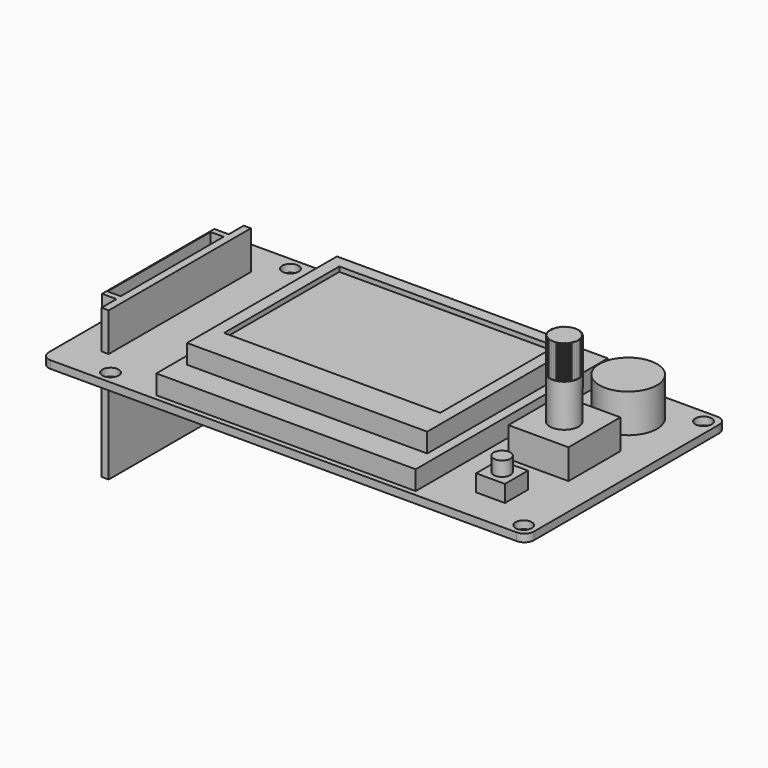
from build123d import *

# Parameters (mm, degrees)
F0_R      = 1.7
F1_DEPTH  = 1.6
F2_W      = 54
F2_H      = 50
F3_DEPTH  = 4
F4_W      = 50
F4_H      = 39
F5_DEPTH  = 4
F7_DEPTH  = 8
F8_DEPTH  = 23
F9_W      = 2.7
F9_H      = 26.8
F10_DEPTH = 25
F12_R     = 6
F13_DEPTH = 8
F14_R     = 3
F15_DEPTH = 22
F11_W     = 12.5
F11_H     = 13.5
F16_DEPTH = 6.2
F18_DEPTH = 7
F19_W     = 6
F19_H     = 6
F20_DEPTH = 3.5
F21_R     = 1.75
F22_DEPTH = 3
F23_W     = 45
F23_H     = 30
F24_DEPTH = 1


with BuildPart() as f1:
    # F0 (on Top) → F1 (new body)
    with BuildSketch(Plane.XY):
        with BuildLine():
            ThreePointArc((0, 2), (0.585786, 0.585786), (2, 0))
            Line((2, 0), (99, 0))
            ThreePointArc((99, 0), (100.414214, 0.585786), (101, 2))
            Line((101, 2), (101, 50.2))
            ThreePointArc((101, 50.2), (100.414214, 51.614214), (99, 52.2))
            Line((99, 52.2), (2, 52.2))
            ThreePointArc((2, 52.2), (0.585786, 51.614214), (0, 50.2))
            Line((0, 50.2), (0, 2))
        make_face()
        with Locations((12.3, 2.7)):
            Circle(F0_R, mode=Mode.SUBTRACT)
        with Locations((98.3, 2.7)):
            Circle(F0_R, mode=Mode.SUBTRACT)
        with Locations((12.3, 49.5)):
            Circle(F0_R, mode=Mode.SUBTRACT)
        with Locations((98.3, 49.5)):
            Circle(F0_R, mode=Mode.SUBTRACT)
    extrude(amount=F1_DEPTH)

    # F2 (on face) → F3 (join)
    with BuildSketch(Plane.XY.offset(1.6)):
        with Locations((50.1, 26.1)):
            Rectangle(F2_W, F2_H)
    extrude(amount=F3_DEPTH)

    # F4 (on face) → F5 (join)
    with BuildSketch(Plane.XY.offset(5.6)):
        with Locations((50.1, 26.1)):
            Rectangle(F4_W, F4_H)
    extrude(amount=F5_DEPTH)

    # F6 (on face) → F7 (join)
    with BuildSketch(Plane.XY.offset(1.6)):
        Polygon((8, 7.6), (8, 44.6), (6.5, 44.6), (6.5, 40.7), (3.5, 40.7), (3.5, 11.5), (6.5, 11.5), (6.5, 7.6), align=None)
    extrude(amount=F7_DEPTH)

    # F6 (on face) → F8 (join)
    with BuildSketch(Plane.XY.offset(1.6)):
        Polygon((8, 7.6), (8, 44.6), (6.5, 44.6), (6.5, 40.7), (3.5, 40.7), (3.5, 11.5), (6.5, 11.5), (6.5, 7.6), align=None)
    extrude(amount=-F8_DEPTH)

    # F9 (on face) → F10 (cut)
    with BuildSketch(Plane.XY.offset(9.6)):
        with Locations((5.05, 26.1)):
            Rectangle(F9_W, F9_H)
    extrude(amount=-F10_DEPTH, mode=Mode.SUBTRACT)

    # F12 (on face) → F13 (join)
    with BuildSketch(Plane.XY.offset(1.6)):
        with Locations((88.05, 42.7)):
            Circle(F12_R)
    extrude(amount=F13_DEPTH)

    # F14 (on face) → F15 (join)
    with BuildSketch(Plane.XY.offset(1.6)):
        with Locations((88.05, 26.075)):
            Circle(F14_R)
    extrude(amount=F15_DEPTH)

    # F11 (on face) → F16 (join)
    with BuildSketch(Plane.XY.offset(1.6)):
        with Locations((88.05, 26.1)):
            Rectangle(F11_W, F11_H)
    extrude(amount=F16_DEPTH)

    # F17 (on face) → F18 (cut)
    with BuildSketch(Plane.XY.offset(23.6)):
        Polygon((88.398623, 30.059779), (88.05, 30.075), (87.701377, 30.059779), (87.355407, 30.014231), (87.014724, 29.938703), (86.681919, 29.83377), (86.359527, 29.700231), (86.05, 29.539102), (85.755694, 29.351608), (85.47885, 29.139178), (85.221573, 28.903427), (84.985822, 28.64615), (84.773392, 28.369306), (84.585898, 28.075), (84.424769, 27.765473), (84.29123, 27.443081), (84.186297, 27.110276), (84.110769, 26.769593), (84.065221, 26.423623), (84.05, 26.075), (84.065221, 25.726377), (84.110769, 25.380407), (84.186297, 25.039724), (84.29123, 24.706919), (84.424769, 24.384527), (84.585898, 24.075), (84.773392, 23.780694), (84.985822, 23.50385), (85.221573, 23.246573), (85.47885, 23.010822), (85.755694, 22.798392), (86.05, 22.610898), (86.359527, 22.449769), (86.681919, 22.31623), (87.014724, 22.211297), (87.355407, 22.135769), (87.701377, 22.090221), (88.05, 22.075), (88.398623, 22.090221), (88.744593, 22.135769), (89.085276, 22.211297), (89.418081, 22.31623), (89.740473, 22.449769), (90.05, 22.610898), (90.344306, 22.798392), (90.62115, 23.010822), (90.878427, 23.246573), (91.114178, 23.50385), (91.326608, 23.780694), (91.514102, 24.075), (91.675231, 24.384527), (91.80877, 24.706919), (91.913703, 25.039724), (91.989231, 25.380407), (92.034779, 25.726377), (92.05, 26.075), (92.034779, 26.423623), (91.989231, 26.769593), (91.913703, 27.110276), (91.80877, 27.443081), (91.675231, 27.765473), (91.514102, 28.075), (91.326608, 28.369306), (91.114178, 28.64615), (90.878427, 28.903427), (90.62115, 29.139178), (90.344306, 29.351608), (90.05, 29.539102), (89.740473, 29.700231), (89.418081, 29.83377), (89.085276, 29.938703), (88.744593, 30.014231), align=None)
        Polygon((87.927866, 28.872335), (88.05, 29.075), (88.172134, 28.872335), (88.311467, 29.063584), (88.415473, 28.851046), (88.570945, 29.029423), (88.656031, 28.808629), (88.826457, 28.972777), (88.891976, 28.745407), (89.07606, 28.894078), (89.121514, 28.661863), (89.317855, 28.793923), (89.342896, 28.55863), (89.55, 28.673076), (89.554439, 28.436496), (89.770729, 28.532456), (89.754532, 28.296389), (89.978363, 28.373133), (89.941653, 28.139377), (90.17132, 28.19632), (90.114377, 27.966653), (90.348133, 28.003363), (90.271389, 27.779532), (90.507456, 27.795729), (90.411496, 27.579439), (90.648076, 27.575), (90.53363, 27.367896), (90.768923, 27.342855), (90.636863, 27.146514), (90.869078, 27.10106), (90.720407, 26.916976), (90.947777, 26.851457), (90.783629, 26.681031), (91.004423, 26.595945), (90.826046, 26.440473), (91.038584, 26.336467), (90.847335, 26.197134), (91.05, 26.075), (90.847335, 25.952866), (91.038584, 25.813533), (90.826046, 25.709527), (91.004423, 25.554055), (90.783629, 25.468969), (90.947777, 25.298543), (90.720407, 25.233024), (90.869078, 25.04894), (90.636863, 25.003486), (90.768923, 24.807145), (90.53363, 24.782104), (90.648076, 24.575), (90.411496, 24.570561), (90.507456, 24.354271), (90.271389, 24.370468), (90.348133, 24.146637), (90.114377, 24.183347), (90.17132, 23.95368), (89.941653, 24.010623), (89.978363, 23.776867), (89.754532, 23.853611), (89.770729, 23.617544), (89.554439, 23.713504), (89.55, 23.476924), (89.342896, 23.59137), (89.317855, 23.356077), (89.121514, 23.488137), (89.07606, 23.255922), (88.891976, 23.404593), (88.826457, 23.177223), (88.656031, 23.341371), (88.570945, 23.120577), (88.415473, 23.298954), (88.311467, 23.086416), (88.172134, 23.277665), (88.05, 23.075), (87.927866, 23.277665), (87.788533, 23.086416), (87.684527, 23.298954), (87.529055, 23.120577), (87.443969, 23.341371), (87.273543, 23.177223), (87.208024, 23.404593), (87.02394, 23.255922), (86.978486, 23.488137), (86.782145, 23.356077), (86.757104, 23.59137), (86.55, 23.476924), (86.545561, 23.713504), (86.329271, 23.617544), (86.345468, 23.853611), (86.121637, 23.776867), (86.158347, 24.010623), (85.92868, 23.95368), (85.985623, 24.183347), (85.751867, 24.146637), (85.828611, 24.370468), (85.592544, 24.354271), (85.688504, 24.570561), (85.451924, 24.575), (85.56637, 24.782104), (85.331077, 24.807145), (85.463137, 25.003486), (85.230922, 25.04894), (85.379593, 25.233024), (85.152223, 25.298543), (85.316371, 25.468969), (85.095577, 25.554055), (85.273954, 25.709527), (85.061416, 25.813533), (85.252665, 25.952866), (85.05, 26.075), (85.252665, 26.197134), (85.061416, 26.336467), (85.273954, 26.440473), (85.095577, 26.595945), (85.316371, 26.681031), (85.152223, 26.851457), (85.379593, 26.916976), (85.230922, 27.10106), (85.463137, 27.146514), (85.331077, 27.342855), (85.56637, 27.367896), (85.451924, 27.575), (85.688504, 27.579439), (85.592544, 27.795729), (85.828611, 27.779532), (85.751867, 28.003363), (85.985623, 27.966653), (85.92868, 28.19632), (86.158347, 28.139377), (86.121637, 28.373133), (86.345468, 28.296389), (86.329271, 28.532456), (86.545561, 28.436496), (86.55, 28.673076), (86.757104, 28.55863), (86.782145, 28.793923), (86.978486, 28.661863), (87.02394, 28.894078), (87.208024, 28.745407), (87.273543, 28.972777), (87.443969, 28.808629), (87.529055, 29.029423), (87.684527, 28.851046), (87.788533, 29.063584), align=None, mode=Mode.SUBTRACT)
    extrude(amount=-F18_DEPTH, mode=Mode.SUBTRACT)

    # F19 (on face) → F20 (join)
    with BuildSketch(Plane.XY.offset(1.6)):
        with Locations((88.05, 9.88)):
            Rectangle(F19_W, F19_H)
    extrude(amount=F20_DEPTH)

    # F21 (on face) → F22 (join)
    with BuildSketch(Plane.XY.offset(5.1)):
        with Locations((88.05, 9.88)):
            Circle(F21_R)
    extrude(amount=F22_DEPTH)

    # F23 (on face) → F24 (cut)
    with BuildSketch(Plane.XY.offset(9.6)):
        with Locations((50.1, 28.1)):
            Rectangle(F23_W, F23_H)
    extrude(amount=-F24_DEPTH, mode=Mode.SUBTRACT)


solid = f1.part
